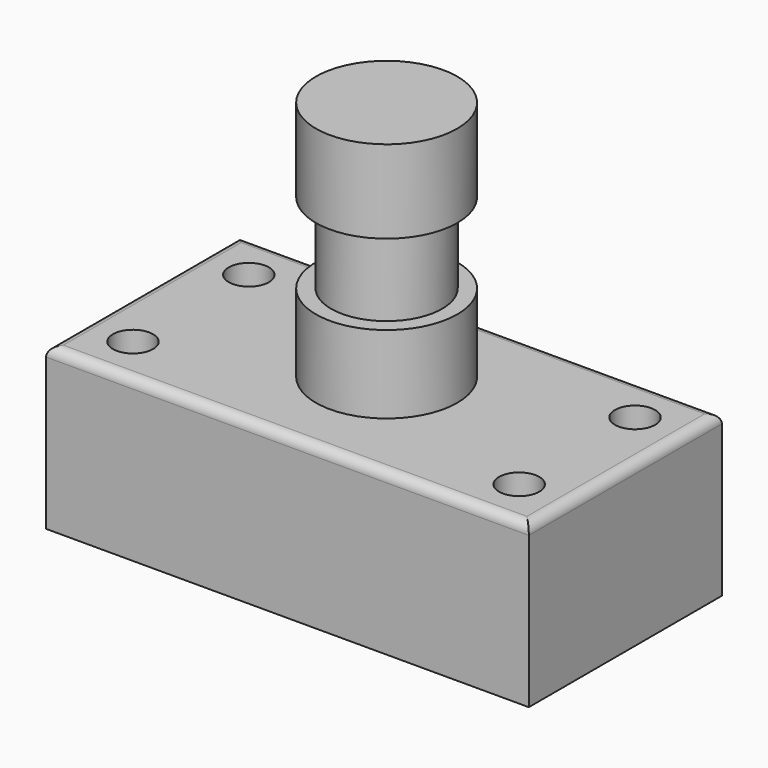
from build123d import *

# Parameters (mm, degrees)
F0_W     = 76.2
F0_H     = 38.1
F1_DEPTH = 25.4
F2_R     = 3.175
F3_DEPTH = 25.4
F4_R     = 11.153796
F5_DEPTH = 38.1
F6_W     = 14.986
F6_H     = 12.7
F8_R     = 1.524


with BuildPart() as f1:
    # F0 (on Top) → F1 (new body)
    with BuildSketch(Plane.XY):
        with Locations((0.211801, -8.619163)):
            Rectangle(F0_W, F0_H)
    extrude(amount=F1_DEPTH)

    # F2 (on Top) → F3 (cut)
    with BuildSketch(Plane.XY):
        with Locations((-30.268199, 2.810837)):
            Circle(F2_R)
        with Locations((-30.268199, -20.049163)):
            Circle(F2_R)
        with Locations((30.691801, 2.810837)):
            Circle(F2_R)
        with Locations((30.691801, -20.049163)):
            Circle(F2_R)
    extrude(amount=F3_DEPTH, mode=Mode.SUBTRACT)

    # F4 (on face) → F5 (join)
    with BuildSketch(Plane.XY.offset(25.4)):
        with Locations((0, -7.839597)):
            Circle(F4_R)
    extrude(amount=F5_DEPTH)

    # F6 (on Front) → F7 (revolve, cut)
    with BuildSketch(Plane.XZ):
        with Locations((-11.421585, 44.041961)):
            Rectangle(F6_W, F6_H)
    revolve(axis=Axis((0, -7.839597, 63.5), (0, 0, 1)), mode=Mode.SUBTRACT)

    # F8
    f8_edges = [f1.edges().sort_by_distance(p)[0] for p in [
        (0.211801, -27.669163, 25.4),
        (-37.888199, -8.619163, 25.4),
        (0.211801, 10.430837, 25.4),
        (38.311801, -8.619163, 25.4),
    ]]
    fillet(f8_edges, radius=F8_R)


solid = f1.part
